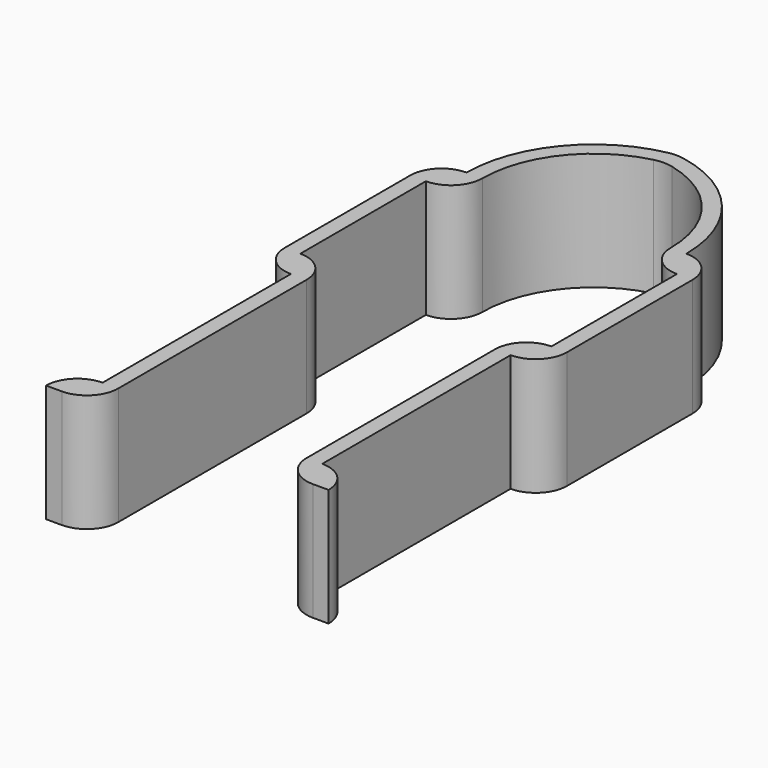
from build123d import *

# Parameters (mm, degrees)
F2_DEPTH = 15
F3_R     = 5


with BuildPart() as f2:
    # F1 (on Top) → F2 (new body)
    with BuildSketch(Plane.XY):
        with BuildLine():
            Line((0, 30), (0, 28))
            ThreePointArc((0, 28), (8.589469, 23.219544), (12, 14))
            ThreePointArc((12, 14), (13.171573, 11.171573), (16, 10))
            Line((16, 10), (16, -10))
            ThreePointArc((16, -10), (13.171573, -11.171573), (12, -14))
            Line((12, -14), (12, -44))
            ThreePointArc((12, -44), (13.171573, -46.828427), (16, -48))
            Line((16, -48), (18, -48))
            ThreePointArc((18, -48), (16.828427, -45.171573), (14, -44))
            Line((14, -44), (14, -14))
            ThreePointArc((14, -14), (16.828427, -12.828427), (18, -10))
            Line((18, -10), (18, 10))
            ThreePointArc((18, 10), (16.828427, 12.828427), (14, 14))
            ThreePointArc((14, 14), (10.107982, 24.521127), (0.305882, 29.976471))
            Line((0.305882, 29.976471), (0, 30))
        make_face()
        with BuildLine():
            Line((-16, -10), (-16, 10))
            ThreePointArc((-16, 10), (-13.171573, 11.171573), (-12, 14))
            ThreePointArc((-12, 14), (-8.589469, 23.219544), (0, 28))
            Line((0, 28), (0, 30))
            Line((0, 30), (-0.305882, 29.976471))
            ThreePointArc((-0.305882, 29.976471), (-10.107982, 24.521127), (-14, 14))
            ThreePointArc((-14, 14), (-16.828427, 12.828427), (-18, 10))
            Line((-18, 10), (-18, -10))
            ThreePointArc((-18, -10), (-16.828427, -12.828427), (-14, -14))
            Line((-14, -14), (-14, -44))
            ThreePointArc((-14, -44), (-16.828427, -45.171573), (-18, -48))
            Line((-18, -48), (-16, -48))
            ThreePointArc((-16, -48), (-13.171573, -46.828427), (-12, -44))
            Line((-12, -44), (-12, -14))
            ThreePointArc((-12, -14), (-13.171573, -11.171573), (-16, -10))
        make_face()
    extrude(amount=F2_DEPTH)

    # F3
    f3_edges = [f2.edges().sort_by_distance(p)[0] for p in [
        (0, 30, 7.5),
        (0, 28, 7.5),
    ]]
    fillet(f3_edges, radius=F3_R)


solid = f2.part
